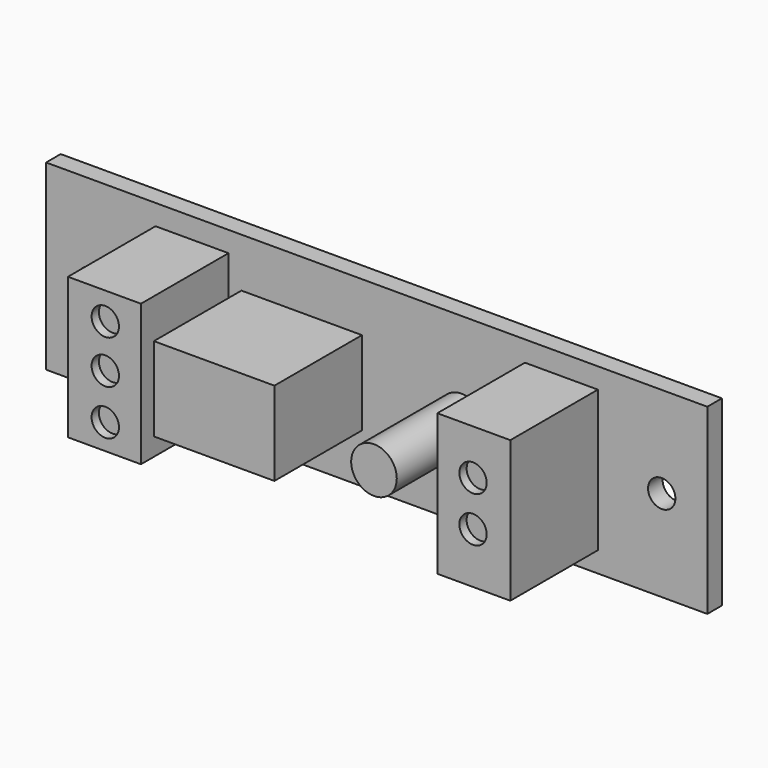
from build123d import *

# Parameters (mm, degrees)
F0_W     = 72.5
F0_H     = 20
F1_DEPTH = 2
F2_R     = 1.5
F3_DEPTH = 2
F4_W     = 8
F4_H     = 15.5
F4_W_2   = 13.217593
F4_H_2   = 9.198598
F4_R     = 2.5
F5_DEPTH = 12
F6_R     = 1.5
F7_DEPTH = 1


with BuildPart() as f1:
    # F0 (on Front) → F1 (new body)
    with BuildSketch(Plane.XZ):
        Rectangle(F0_W, F0_H)
    extrude(amount=-F1_DEPTH)

    # F2 (on face) → F3 (cut, through all)
    with BuildSketch(Plane.XZ):
        with Locations((-31.25, 0)):
            Circle(F2_R)
        with Locations((31.25, 0)):
            Circle(F2_R)
    extrude(amount=-F3_DEPTH, mode=Mode.SUBTRACT)

    # F4 (on face) → F5 (join)
    with BuildSketch(Plane.XZ):
        with Locations((-20.25, 0)):
            Rectangle(F4_W, F4_H)
        with Locations((20.25, 0)):
            Rectangle(F4_W, F4_H)
        with Locations((-8.224997, 0)):
            Rectangle(F4_W_2, F4_H_2)
        with Locations((9.300935, 0)):
            Circle(F4_R)
    extrude(amount=F5_DEPTH)

    # F6 (on face) → F7 (cut)
    with BuildSketch(Plane.XZ.offset(12)):
        with Locations((-20.159207, 4.766709)):
            Circle(F6_R)
        with Locations((-20.159207, 0)):
            Circle(F6_R)
        with Locations((-20.159207, -4.965322)):
            Circle(F6_R)
        with Locations((20.159205, 2.78058)):
            Circle(F6_R)
        with Locations((20.159205, -2.184742)):
            Circle(F6_R)
    extrude(amount=-F7_DEPTH, mode=Mode.SUBTRACT)


solid = f1.part
